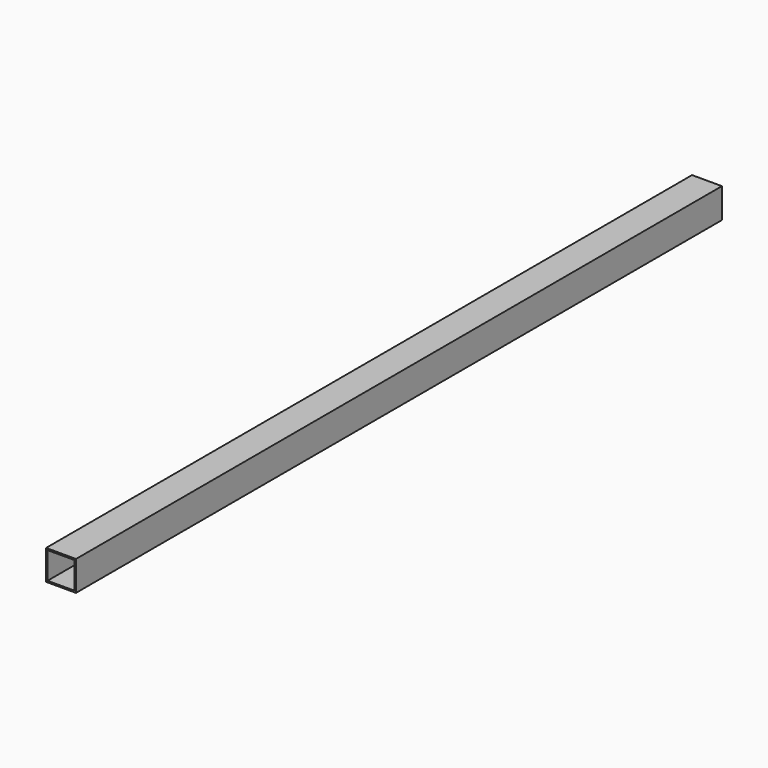
from build123d import *

# Parameters (mm, degrees)
F0_W     = 1371.6
F0_H     = 50.8
F1_DEPTH = 50.8
F2_T     = -2.54


with BuildPart() as f1:
    # F0 (on Right) → F1 (new body)
    with BuildSketch(Plane.YZ):
        Rectangle(F0_W, F0_H)
    extrude(amount=F1_DEPTH)

    # F2
    f2_openings = [f1.faces().sort_by_distance(p)[0] for p in [
        (25.4, -685.8, 0),
        (25.4, 685.8, 0),
    ]]
    offset(amount=F2_T, openings=f2_openings)


solid = f1.part
